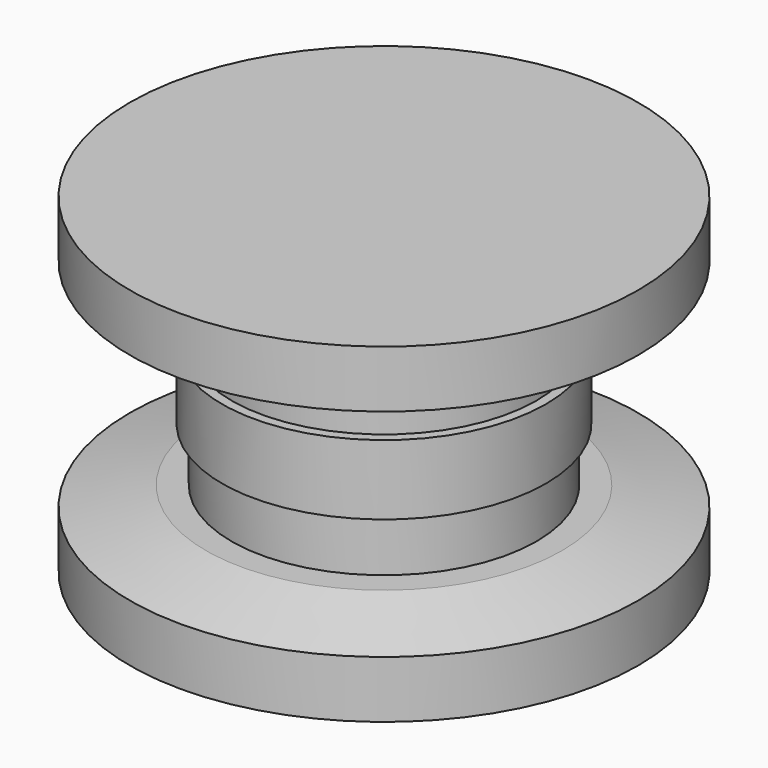
from build123d import *

# Parameters (mm, degrees)
F0_R      = 12.75
F1_DEPTH  = 2.75
F2_R      = 12
F3_DEPTH  = 4.25
F4_R      = 20
F5_DEPTH  = 6
F6_SIZE2  = 6
F6_SIZE   = 1.5
F7_R      = 12
F8_DEPTH  = 4.25
F9_R      = 20
F10_DEPTH = 6
F11_SIZE2 = 6
F11_SIZE  = 1.5


with BuildPart() as f1:
    # F0 (on Top) → F1 (new body, symmetric)
    with BuildSketch(Plane.XY):
        Circle(F0_R)
    extrude(amount=F1_DEPTH, both=True)

    # F2 (on face) → F3 (join)
    with BuildSketch(Plane.XY.offset(2.75)):
        Circle(F2_R)
    extrude(amount=F3_DEPTH)



with BuildPart() as f5:
    # F4 (on face) → F5 (new body)
    with BuildSketch(Plane(origin=(0, 0, -7), x_dir=(1, 0, 0), z_dir=(0, 0, -1))):
        Circle(F4_R)
    extrude(amount=F5_DEPTH)

    # F6
    f6_edges = [f5.edges().sort_by_distance(p)[0] for p in [
        (-20, 0, -7),
    ]]
    chamfer(f6_edges, length=F6_SIZE, length2=F6_SIZE2)


with BuildPart() as f1_1:
    add(f1.part)

    add(f5.part)  # F8 merges F5
    # F7 (on face) → F8 (join)
    with BuildSketch(Plane(origin=(0, 0, -2.75), x_dir=(1, 0, 0), z_dir=(0, 0, -1))):
        Circle(F7_R)
    extrude(amount=F8_DEPTH)

    # F9 (on face) → F10 (join)
    with BuildSketch(Plane.XY.offset(7)):
        Circle(F9_R)
    extrude(amount=F10_DEPTH)

    # F11
    f11_edges = [f1_1.edges().sort_by_distance(p)[0] for p in [
        (-20, 0, 7),
    ]]
    chamfer(f11_edges, length=F11_SIZE, length2=F11_SIZE2)


solid = f1_1.part
